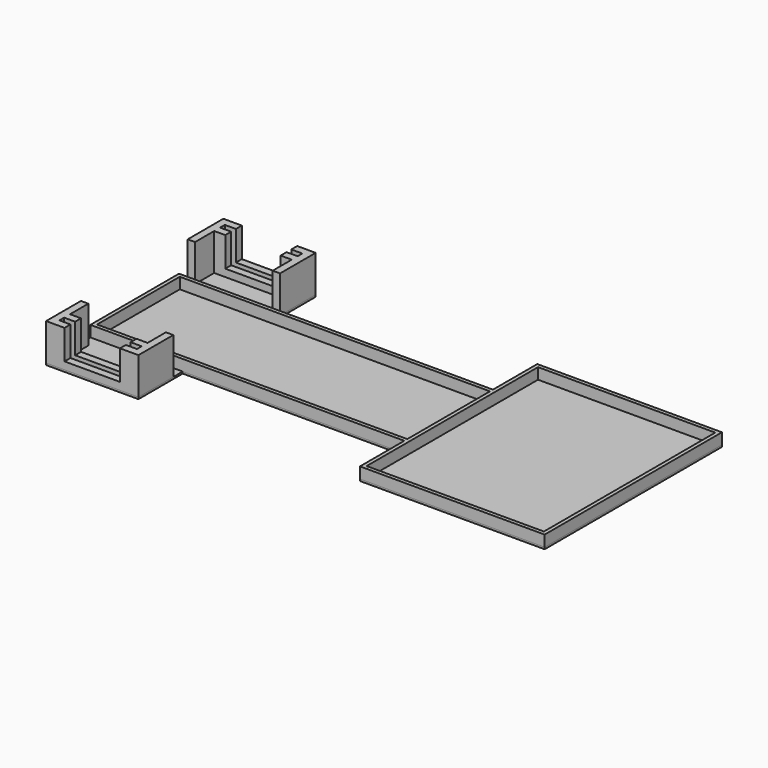
from build123d import *

# Parameters (mm, degrees)
F0_W     = 60
F0_H     = 30
F1_DEPTH = 0.5
F2_W     = 84
F2_H     = 28
F2_W_2   = 48
F2_H_2   = 58
F3_DEPTH = 3
F4_W     = 21
F4_H     = 1.6
F5_DEPTH = 10
F6_W     = 15
F6_H     = 5.6
F7_DEPTH = 8
F8_W     = 15
F8_H     = 5.6
F9_DEPTH = 8


with BuildPart() as f1:
    # F0 (on Top) → F1 (new body)
    with BuildSketch(Plane.XY):
        with Locations((-20.479357, 0)):
            Rectangle(F0_W, F0_H)
        Polygon((-50.479357, -15), (-50.479357, 15), (-50.479357, 30), (-75.479357, 30), (-75.479357, -30), (-50.479357, -30), align=None)
        Polygon((9.520643, 30), (9.520643, 15), (9.520643, -15), (9.520643, -30), (59.520643, -30), (59.520643, 30), align=None)
    extrude(amount=F1_DEPTH)


with BuildPart() as f3:
    # F2 (on face) → F3 (new body)
    with BuildSketch(Plane.XY.offset(0.5)):
        Polygon((9.520643, 15), (-75.479357, 15), (-75.479357, -15), (9.520643, -15), (9.520643, -30), (59.520643, -30), (59.520643, 30), (9.520643, 30), align=None)
        with Locations((-32.479357, 0)):
            Rectangle(F2_W, F2_H, mode=Mode.SUBTRACT)
        with Locations((34.520643, 0)):
            Rectangle(F2_W_2, F2_H_2, mode=Mode.SUBTRACT)
    extrude(amount=F3_DEPTH)


with BuildPart() as f5:
    # F4 (on face) → F5 (new body)
    with BuildSketch(Plane.XY.offset(0.5)):
        Polygon((-75.479357, -18.199354), (-75.479357, -30), (-50.479357, -30), (-50.479357, -18.199354), (-52.479357, -18.199354), (-52.479357, -24.4), (-73.479357, -24.4), (-73.479357, -18.199354), align=None)
        with Locations((-62.979357, -27.2)):
            Rectangle(F4_W, F4_H, mode=Mode.SUBTRACT)
        Polygon((-50.479357, 30), (-75.479357, 30), (-75.479357, 17.928427), (-73.479357, 17.928427), (-73.479357, 24.4), (-52.479357, 24.4), (-52.479357, 17.941827), (-50.479357, 17.941827), align=None)
        with Locations((-62.979357, 27.2)):
            Rectangle(F4_W, F4_H, mode=Mode.SUBTRACT)
    extrude(amount=F5_DEPTH)

    # F6 (on face) → F7 (cut)
    with BuildSketch(Plane.XY.offset(10.5)):
        with Locations((-62.979357, 27.2)):
            Rectangle(F6_W, F6_H)
    extrude(amount=-F7_DEPTH, mode=Mode.SUBTRACT)

    # F8 (on face) → F9 (cut)
    with BuildSketch(Plane.XY.offset(10.5)):
        with Locations((-62.979357, -27.2)):
            Rectangle(F8_W, F8_H)
    extrude(amount=-F9_DEPTH, mode=Mode.SUBTRACT)


solid = Compound([f1.part, f3.part, f5.part])
